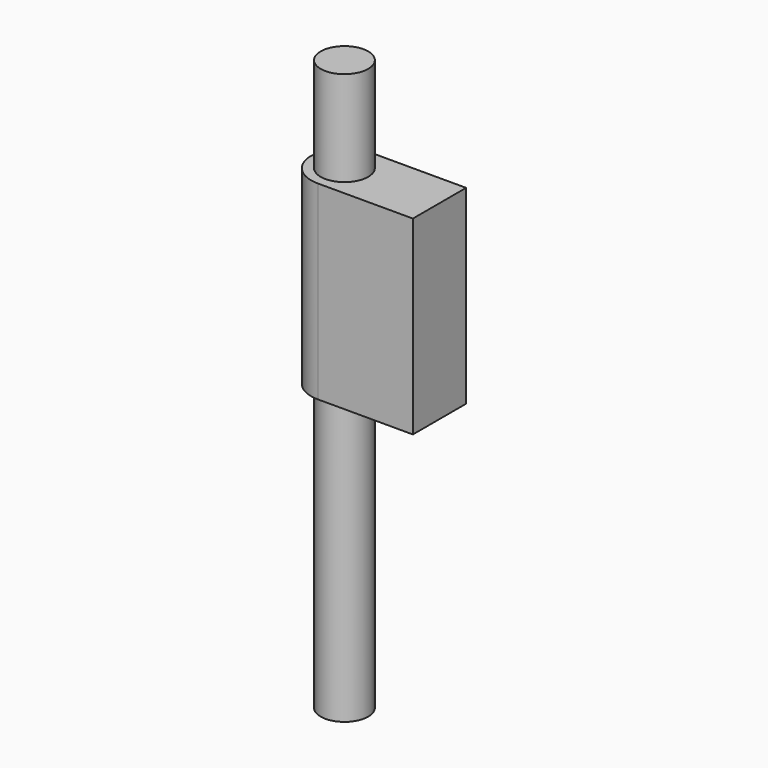
from build123d import *

# Parameters (mm, degrees)
F0_R     = 3.175
F1_DEPTH = 25.4
F2_DEPTH = 38.1


with BuildPart() as f1:
    # F0 (on Top) → F1 (new body)
    with BuildSketch(Plane.XY):
        with BuildLine():
            Line((12.7, 4.445), (0, 4.445))
            ThreePointArc((0, 4.445), (-4.445, 0), (0, -4.445))
            Line((0, -4.445), (12.7, -4.445))
            Line((12.7, -4.445), (12.7, 4.445))
        make_face()
        Circle(F0_R, mode=Mode.SUBTRACT)
    extrude(amount=F1_DEPTH)


with BuildPart() as f2:
    # F0 (on Top) → F2 (new body, symmetric)
    with BuildSketch(Plane.XY):
        Circle(F0_R)
    extrude(amount=F2_DEPTH, both=True)


solid = Compound([f1.part, f2.part])
